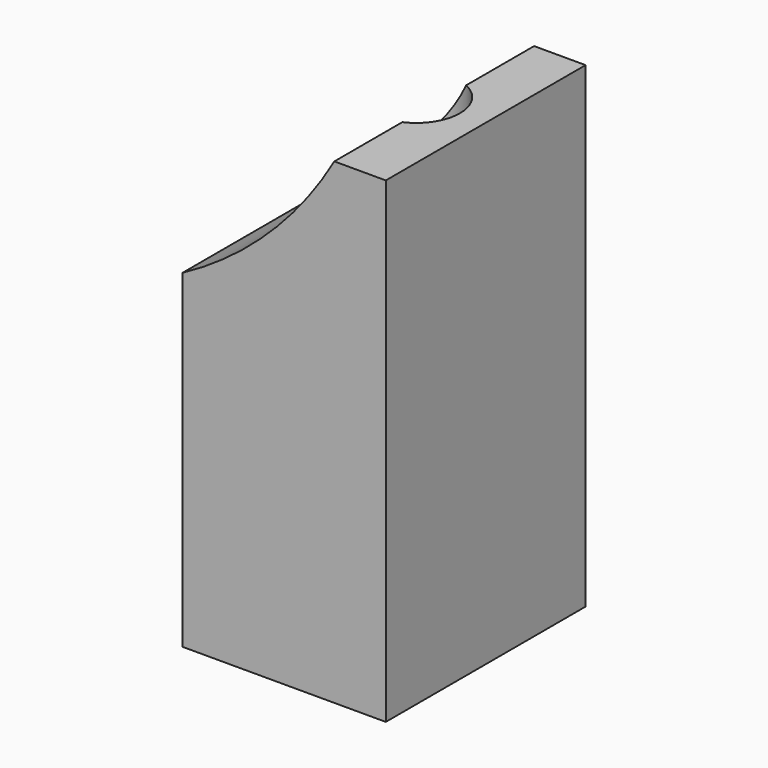
from build123d import *

# Parameters (mm, degrees)
SKETCH_W        = 7.9
SKETCH_H        = 9.7
PAD_DEPTH       = 26
SKETCH002_R     = 1.7
POCKET001_DEPTH = 26
SKETCH003_R     = 4
SKETCH003_R_2   = 15
POCKET002_DEPTH = 10
SKETCH004_R     = 1.7
POCKET003_DEPTH = 2
SKETCH005_W     = 2
SKETCH005_H     = 7.483315
POCKET_DEPTH    = 10
SKETCH006_R     = 1.6
POCKET004_DEPTH = 2


with BuildPart() as part:
    # Sketch → Pad (new body)
    with BuildSketch(Plane.XY):
        with Locations((-29.043821, 17.932895)):
            Rectangle(SKETCH_W, SKETCH_H)
    extrude(amount=PAD_DEPTH)

    # Sketch002 → Pocket001 (cut)
    with BuildSketch(Plane.XY.offset(26)):
        with Locations((-27.793821, 17.932895)):
            Circle(SKETCH002_R)
    extrude(amount=-POCKET001_DEPTH, mode=Mode.SUBTRACT)

    # Sketch003 → Pocket002 (cut)
    with BuildSketch(Plane.XZ.offset(-13.082895)):
        with Locations((-19.856678, 26)):
            Circle(SKETCH003_R)
        with Locations((-40.093821, 26)):
            Circle(SKETCH003_R_2)
    extrude(amount=-POCKET002_DEPTH, mode=Mode.SUBTRACT)

    # Sketch004 → Pocket003 (cut)
    with BuildSketch(Plane(origin=(0, 22.782895, 0), x_dir=(-1, 0, 0), z_dir=(0, 1, 0))):
        with Locations((-19.682895, 11)):
            Circle(SKETCH004_R)
    extrude(amount=-POCKET003_DEPTH, mode=Mode.SUBTRACT)

    # Sketch005 → Pocket (cut)
    with BuildSketch(Plane.XZ.offset(-13.082895)):
        with Locations((-26.093821, 22.258342)):
            Rectangle(SKETCH005_W, SKETCH005_H)
    extrude(amount=-POCKET_DEPTH, mode=Mode.SUBTRACT)

    # Sketch006 → Pocket004 (cut)
    with BuildSketch(Plane(origin=(-32.993821, 0, 0), x_dir=(0, -1, 0), z_dir=(-1, 0, 0))):
        with Locations((-18.082895, 10)):
            Circle(SKETCH006_R)
    extrude(amount=-POCKET004_DEPTH, mode=Mode.SUBTRACT)


solid = part.part
